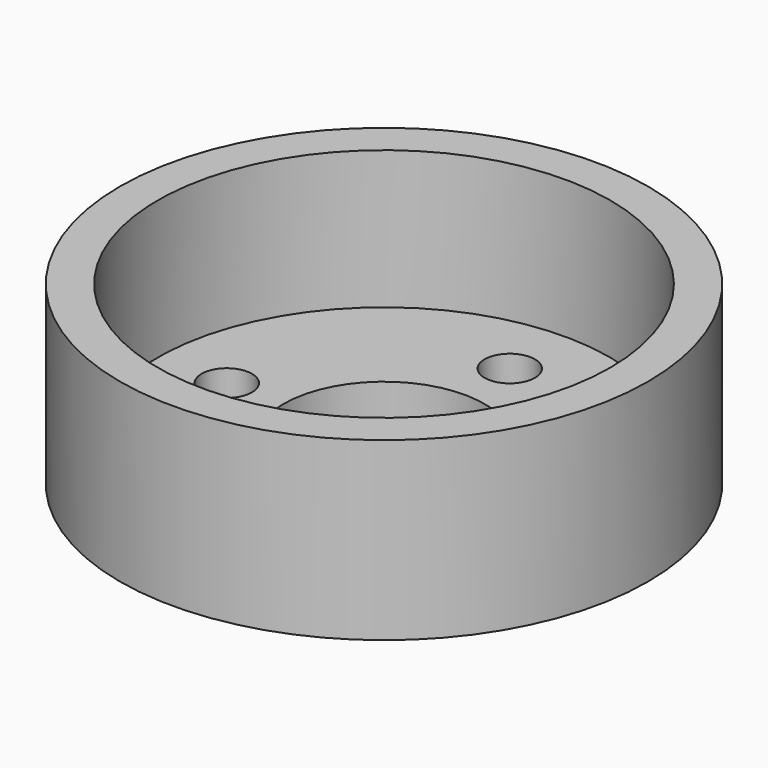
from build123d import *

# Parameters (mm, degrees)
F2_R     = 21
F3_DEPTH = 14
F4_T     = -3
F6_D     = 4
F7_D     = 16


with BuildPart() as f3:
    # F2 (on Top) → F3 (new body)
    with BuildSketch(Plane.XY):
        Circle(F2_R)
    extrude(amount=F3_DEPTH)

    # F4
    f4_openings = [f3.faces().sort_by_distance(p)[0] for p in [
        (0, 0, 14),
    ]]
    offset(amount=F4_T, openings=f4_openings)

    # F6 (through all)
    with Locations(Plane(origin=(0, 0, 0), x_dir=(1, 0, 0), z_dir=(0, 0, -1))):
        with Locations((-12.5, 0), (0, 12.5), (12.5, 0), (0, -12.5)):
            Hole(F6_D / 2)

    # F7 (through all)
    with Locations(Plane(origin=(0, 0, 0), x_dir=(1, 0, 0), z_dir=(0, 0, -1))):
        with Locations((0, 0)):
            Hole(F7_D / 2)


solid = f3.part
